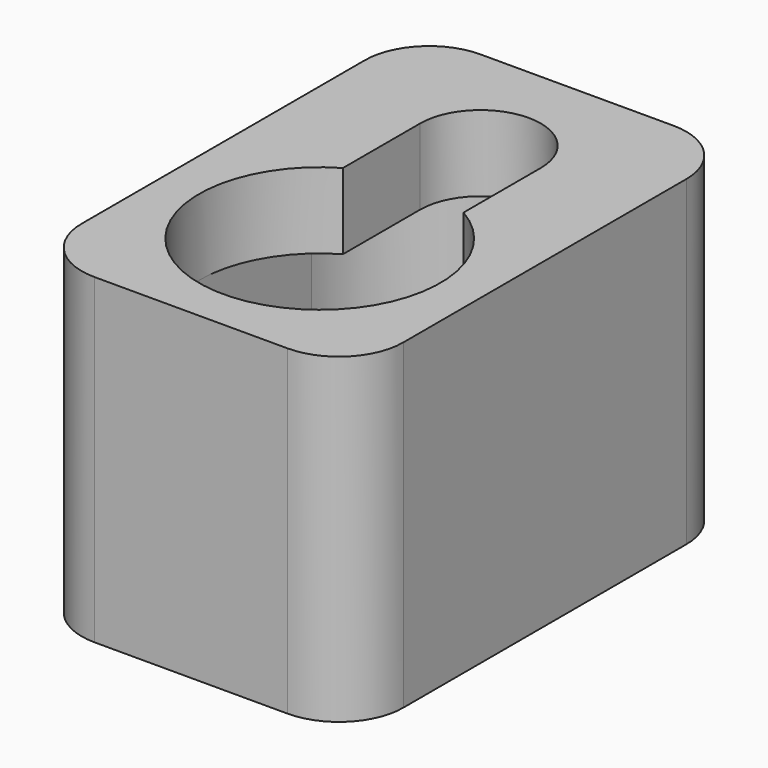
from build123d import *

# Parameters (mm, degrees)
F0_W     = 12.7
F0_H     = 19.05
F1_DEPTH = 12.7
F3_DEPTH = 10.16
F5_DEPTH = 7.1628
F6_R     = 2.54


with BuildPart() as f1:
    # F0 (on Top) → F1 (new body)
    with BuildSketch(Plane.XY):
        with Locations((6.35, 9.525)):
            Rectangle(F0_W, F0_H)
    extrude(amount=F1_DEPTH)

    # F2 (on face) → F3 (cut)
    with BuildSketch(Plane.XY.offset(12.7)):
        with BuildLine():
            Line((3.96875, 14.2875), (3.96875, 10.474446))
            ThreePointArc((3.96875, 10.474446), (6.35, 1.5875), (8.73125, 10.474446))
            Line((8.73125, 10.474446), (8.73125, 14.2875))
            ThreePointArc((8.73125, 14.2875), (6.35, 16.66875), (3.96875, 14.2875))
        make_face()
    extrude(amount=-F3_DEPTH, mode=Mode.SUBTRACT)

    # F4 (on face) → F5 (cut)
    with BuildSketch(Plane.XY.offset(2.54)):
        with BuildLine():
            Line((1.5875, 11.90625), (1.5875, 6.35))
            ThreePointArc((1.5875, 6.35), (6.35, 1.5875), (11.1125, 6.35))
            Line((11.1125, 6.35), (11.1125, 11.90625))
            ThreePointArc((11.1125, 11.90625), (6.35, 16.66875), (1.5875, 11.90625))
        make_face()
    extrude(amount=F5_DEPTH, mode=Mode.SUBTRACT)

    # F6
    f6_edges = [f1.edges().sort_by_distance(p)[0] for p in [
        (12.7, 0, 6.35),
        (12.7, 19.05, 6.35),
        (0, 0, 6.35),
        (0, 19.05, 6.35),
    ]]
    fillet(f6_edges, radius=F6_R)


solid = f1.part
